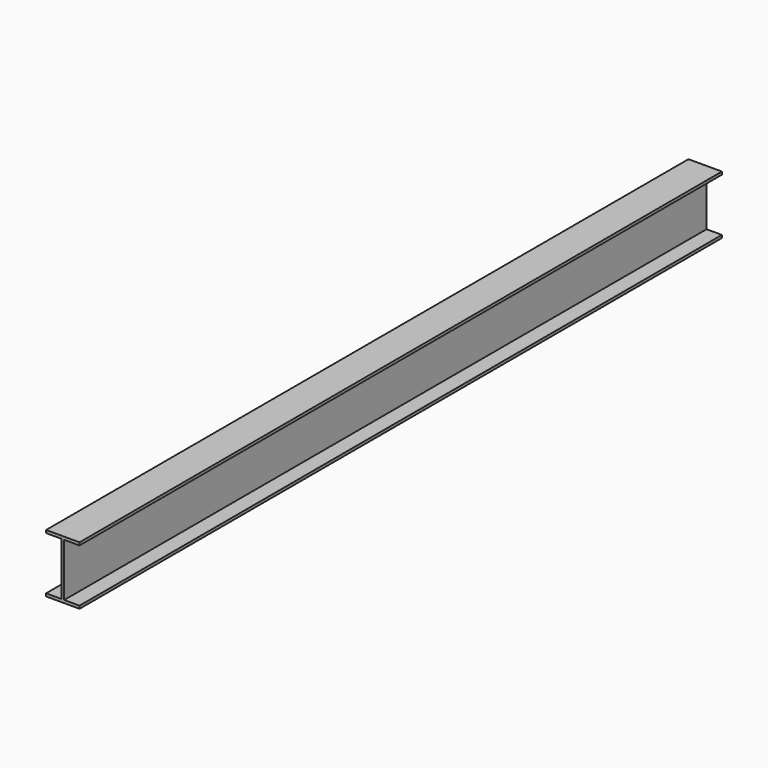
from build123d import *

# Parameters (mm, degrees)
F0_W     = 12.7
F0_H     = 6.35
F0_H_2   = 241.3
F1_DEPTH = 1828.8


with BuildPart() as f1:
    # F0 (on Front) → F1 (new body, symmetric)
    with BuildSketch(Plane.XZ):
        with Locations((0, 123.825)):
            Rectangle(F0_W, F0_H)
        Polygon((-6.35, 127), (6.35, 127), (6.35, 120.65), (76.2, 120.65), (76.2, 133.35), (-76.2, 133.35), (-76.2, 120.65), (-6.35, 120.65), align=None)
        Rectangle(F0_W, F0_H_2)
        Polygon((76.2, -120.65), (6.35, -120.65), (6.35, -127), (-6.35, -127), (-6.35, -120.65), (-76.2, -120.65), (-76.2, -133.35), (76.2, -133.35), align=None)
        with Locations((0, -123.825)):
            Rectangle(F0_W, F0_H)
    extrude(amount=F1_DEPTH, both=True)


solid = f1.part
